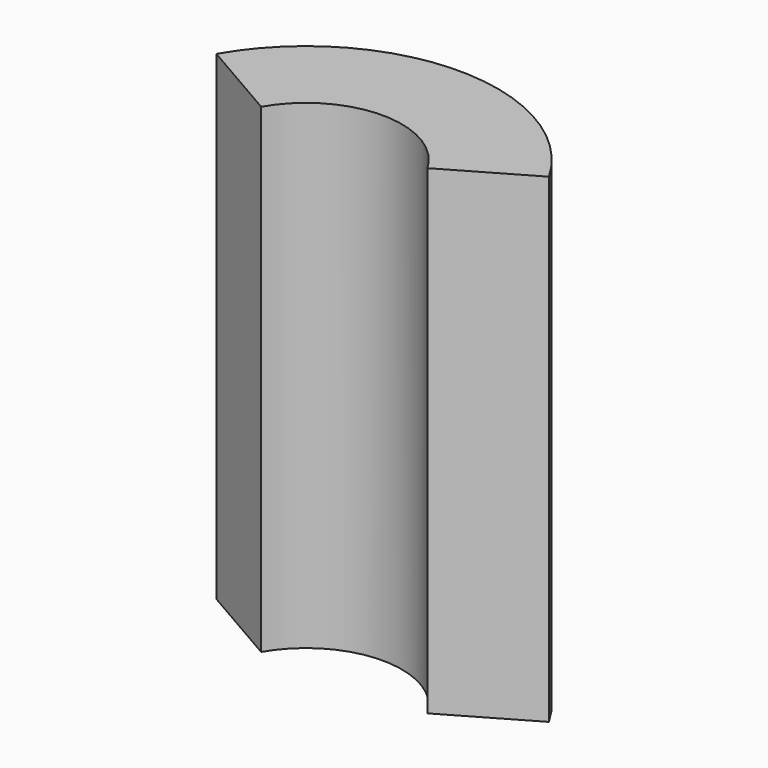
from build123d import *

# Parameters (mm, degrees)
CYLINDER018_W               = 2
CYLINDER018_H               = 10
CYLINDER018_ANGLE           = 120
CYLINDER018_PLACEMENT_ANGLE = 30
CYLINDER016_W               = 4
CYLINDER016_H               = 10
CYLINDER016_ANGLE           = 120
CYLINDER016_PLACEMENT_ANGLE = 30


with BuildPart() as cilindro009:
    # Cylinder018 → Cylinder018 (revolve)
    with BuildSketch(Plane.XZ):
        with Locations((1, 5)):
            Rectangle(CYLINDER018_W, CYLINDER018_H)
    revolve(axis=Axis((0, 0, 0), (0, 0, 1)), revolution_arc=CYLINDER018_ANGLE)


with BuildPart() as cilindro009_1:
    # Cylinder018 placement: moved
    add(cilindro009.part.moved(Location((-30.75, -30, 0))).rotate(Axis((-30.75, -30, 0), (0, 0, 1)), CYLINDER018_PLACEMENT_ANGLE))


with BuildPart() as obj1:
    # Cylinder016 → Cylinder016 (revolve)
    with BuildSketch(Plane.XZ):
        with Locations((2, 5)):
            Rectangle(CYLINDER016_W, CYLINDER016_H)
    revolve(axis=Axis((0, 0, 0), (0, 0, 1)), revolution_arc=CYLINDER016_ANGLE)


with BuildPart() as obj1_1:
    # Cylinder016 placement: moved
    add(obj1.part.moved(Location((-30.75, -30, 0))).rotate(Axis((-30.75, -30, 0), (0, 0, 1)), CYLINDER016_PLACEMENT_ANGLE))

    # Cut007: cut Cilindro009
    add(cilindro009_1.part, mode=Mode.SUBTRACT)


solid = obj1_1.part
